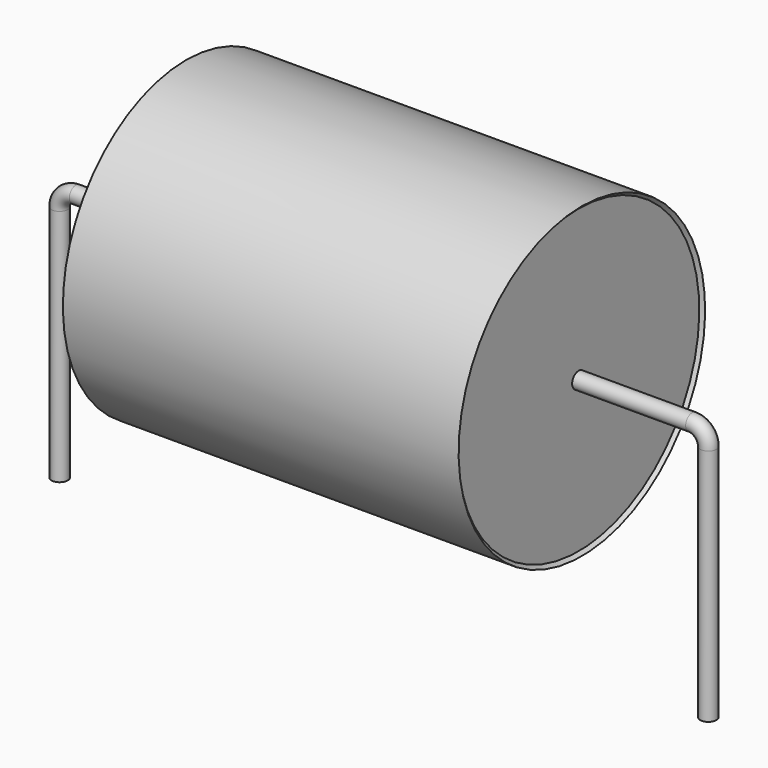
from build123d import *

# Parameters (mm, degrees)
SKETCH_R = 0.25


with BuildPart() as sweep_body:
    # Sweep: sweep along a path in Sketch001
    with BuildLine(Plane.XZ) as sweep_path:
        Line((0, -3), (0, 4.35))
        ThreePointArc((0, 4.35), (0.146443, 4.70355), (0.49999, 4.85))
        Line((0.49999, 4.85), (19.5, 4.85))
        ThreePointArc((19.5, 4.85), (19.853553, 4.703553), (20, 4.35))
        Line((20, 4.35), (20, -3))
    # Sketch → Sweep (sweep)
    with BuildSketch(Plane.XY.offset(-2)):
        Circle(SKETCH_R)
    sweep(path=sweep_path.line)


with BuildPart() as revolution:
    # Sketch002 → Revolution (revolve)
    with BuildSketch(Plane.XZ):
        Polygon((3.9, 9.6), (16.1, 9.6), (16, 9.5), (16, 4.85), (4, 4.85), (4, 9.5), align=None)
    revolve(axis=Axis((7.611803, 0, 4.85), (1, 0, 0)))


solid = Compound([sweep_body.part, revolution.part])
